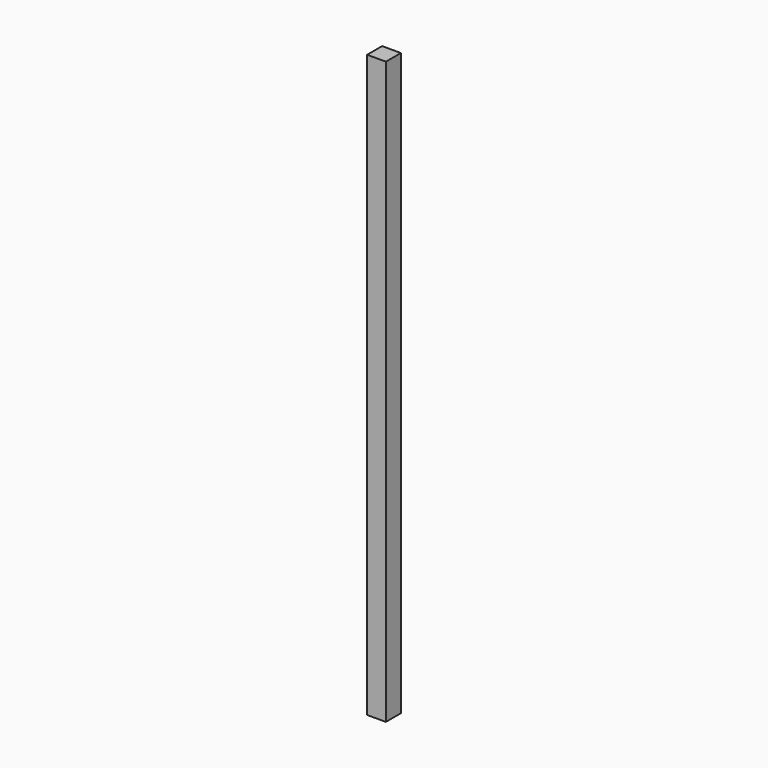
from build123d import *

# Parameters (mm, degrees)
F0_W     = 50
F0_H     = 50
F0_W_2   = 48
F0_H_2   = 48
F1_DEPTH = 1550
F2_W     = 48
F2_H     = 48
F3_DEPTH = 1


with BuildPart() as f1:
    # F0 (on Top) → F1 (new body)
    with BuildSketch(Plane.XY):
        Rectangle(F0_W, F0_H)
        Rectangle(F0_W_2, F0_H_2, mode=Mode.SUBTRACT)
    extrude(amount=F1_DEPTH)

    # F2 (on face) → F3 (join)
    with BuildSketch(Plane.XY.offset(1550)):
        Rectangle(F2_W, F2_H)
    extrude(amount=-F3_DEPTH)


solid = f1.part
